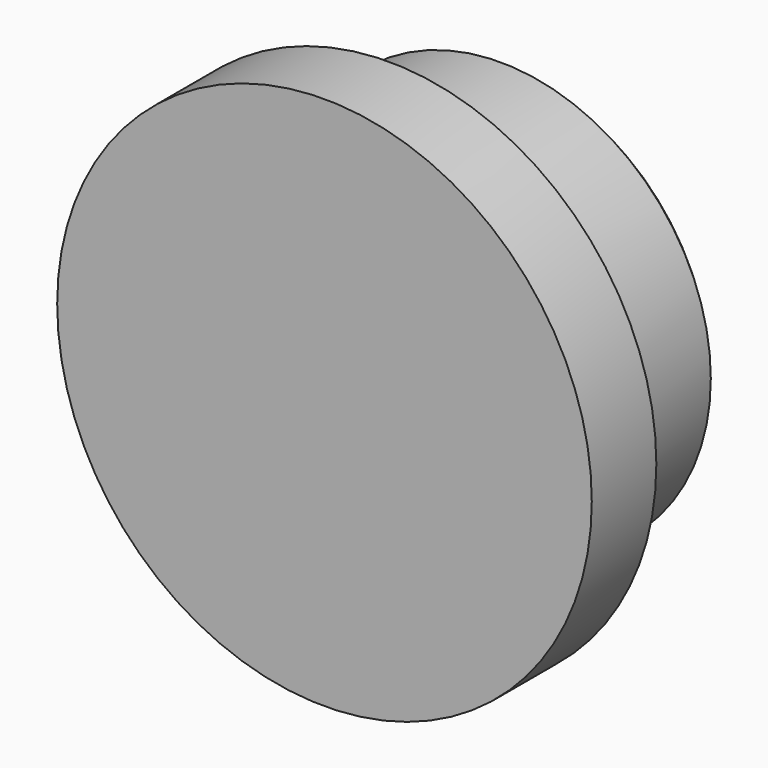
from build123d import *

# Parameters (mm, degrees)
SKETCH005_R             = 15.9
PAD003_DEPTH            = 4.8
SKETCH004_R             = 12.5
PAD002_DEPTH            = 9
CHAMFER002_SIZE         = 0.7
BODY001_PLACEMENT_ANGLE = 90


with BuildPart() as part:
    # Sketch005 → Pad003 (new body)
    with BuildSketch(Plane.XY):
        Circle(SKETCH005_R)
    extrude(amount=PAD003_DEPTH)

    # Sketch004 (on Face3 of Pad003) → Pad002 (join)
    with BuildSketch(Plane.XY.offset(4.8)):
        Circle(SKETCH004_R)
    extrude(amount=PAD002_DEPTH)

    # Chamfer002
    chamfer002_edges = [part.edges().sort_by_distance(p)[0] for p in [
        (-12.5, 0, 13.8),
    ]]
    chamfer(chamfer002_edges, length=CHAMFER002_SIZE)


with BuildPart() as part_1:
    # Body001 placement: moved
    add(part.part.moved(Location((0, -60, -4.5))).rotate(Axis((0, -60, -4.5), (-1, 0, 0)), BODY001_PLACEMENT_ANGLE))


solid = part_1.part
